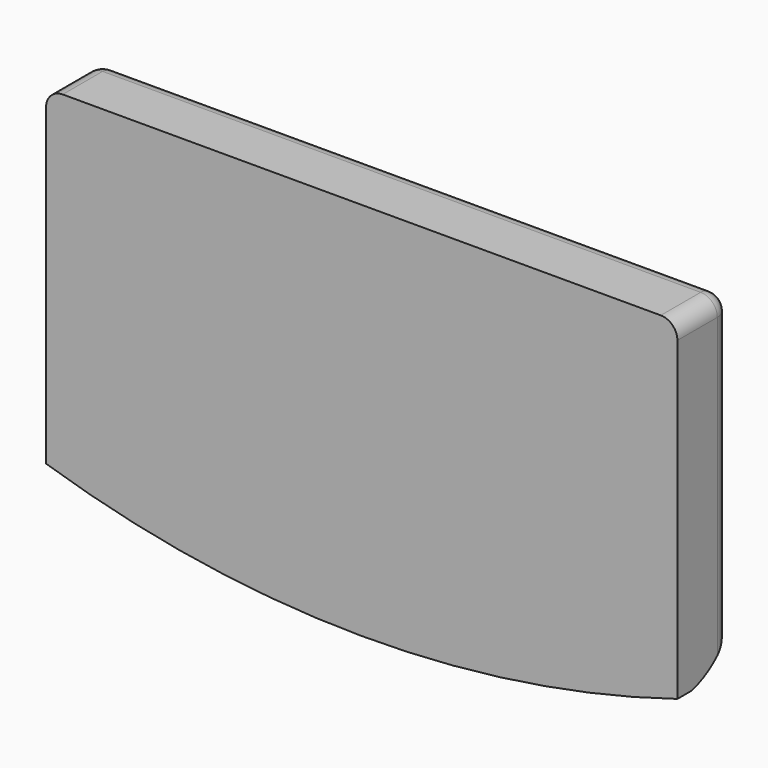
from build123d import *

# Parameters (mm, degrees)
F1_DEPTH = 20
F3_DEPTH = 100
F4_R     = 5


with BuildPart() as f1:
    # F0 (on Front) → F1 (new body)
    with BuildSketch(Plane.XZ):
        with BuildLine():
            Line((91.030714, 28.54419), (-98.969286, 28.54419))
            Line((-98.969286, 28.54419), (-98.969286, -70.923594))
            ThreePointArc((-98.969286, -70.923594), (-4.0099, -85.688886), (91.030714, -71.45581))
            Line((91.030714, -71.45581), (91.030714, 28.54419))
        make_face()
    extrude(amount=F1_DEPTH)

    # F2 (on Right) → F3 (cut, symmetric)
    with BuildSketch(Plane.YZ):
        with BuildLine():
            ThreePointArc((0, -41.784719), (-0.601025, -60.211753), (-15.13516, -71.555287))
            Line((-15.13516, -71.555287), (-19.817429, -85.876599))
            Line((-19.817429, -85.876599), (3.398273, -87.581709))
            Line((3.398273, -87.581709), (10.874517, -61.349276))
            Line((10.874517, -61.349276), (0, -41.784719))
        make_face()
    extrude(amount=F3_DEPTH, both=True, mode=Mode.SUBTRACT)

    # F4
    f4_edges = [f1.edges().sort_by_distance(p)[0] for p in [
        (91.030714, -10, 28.54419),
        (-3.969286, 0, 28.54419),
        (-98.969286, 0, -15.191684),
        (-98.969286, -10, 28.54419),
        (91.030714, 0, -15.191684),
    ]]
    fillet(f4_edges, radius=F4_R)


solid = f1.part
